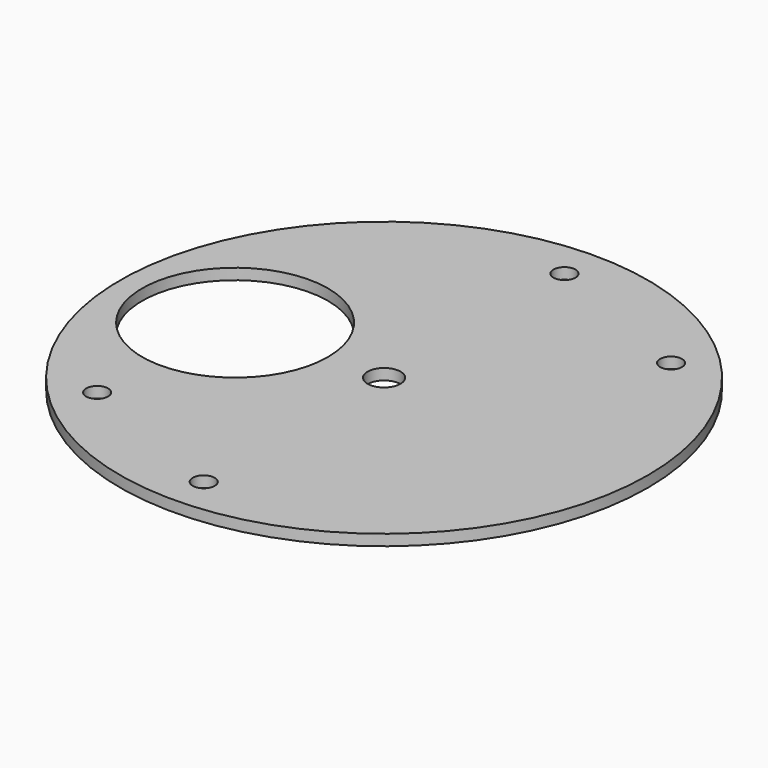
from build123d import *

# Parameters (mm, degrees)
F0_R     = 72
F0_R_2   = 3
F0_R_3   = 25.35
F0_R_4   = 4.5
F1_DEPTH = 3


with BuildPart() as f1:
    # F0 (on Top) → F1 (new body)
    with BuildSketch(Plane.XY):
        Circle(F0_R)
        with Locations((-43.487067, -43.487067)):
            Circle(F0_R_2, mode=Mode.SUBTRACT)
        with Locations((0, -61.5)):
            Circle(F0_R_2, mode=Mode.SUBTRACT)
        with Locations((-40.65, 0)):
            Circle(F0_R_3, mode=Mode.SUBTRACT)
        Circle(F0_R_4, mode=Mode.SUBTRACT)
        with Locations((0, 61.5)):
            Circle(F0_R_2, mode=Mode.SUBTRACT)
        with Locations((43.487067, 43.487067)):
            Circle(F0_R_2, mode=Mode.SUBTRACT)
    extrude(amount=F1_DEPTH)


solid = f1.part
